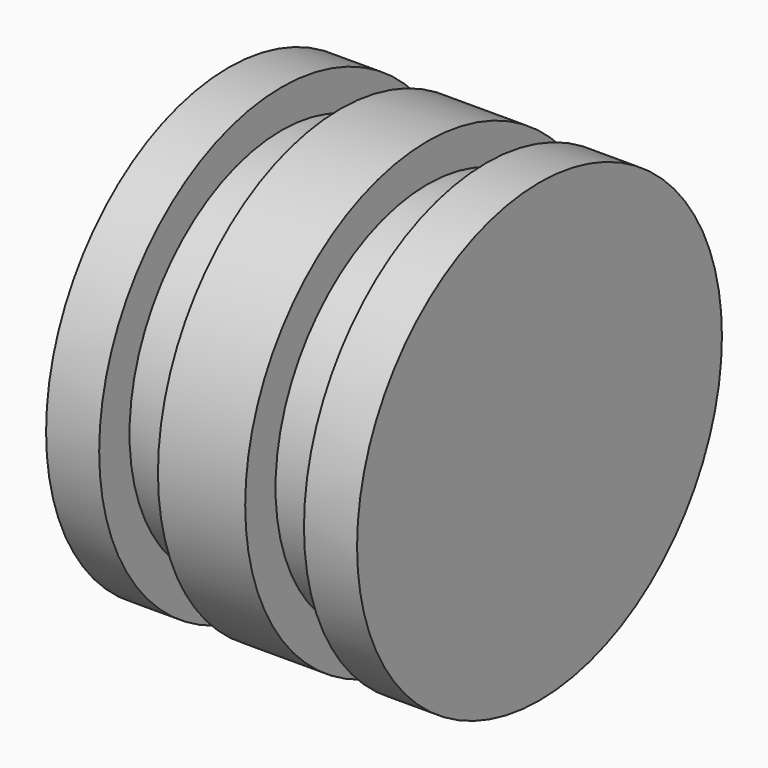
from build123d import *


with BuildPart() as f1:
    # F0 (on Front) → F1 (revolve)
    with BuildSketch(Plane.XZ):
        Polygon((-40.188789, 58.935389), (-40.188789, 0), (0, 0), (0, 58.935389), (-11.272466, 58.935389), (-11.272466, 49.133249), (-26.465788, 49.133249), (-26.465788, 58.935389), align=None)
    revolve(axis=Axis((-20.094395, 0, 0), (-1, 0, 0)))

    # F2: F1 across plane


with BuildPart() as f1_1:
    add(f1.part)
    add(f1.part.mirror(Plane.YZ))


solid = f1_1.part
